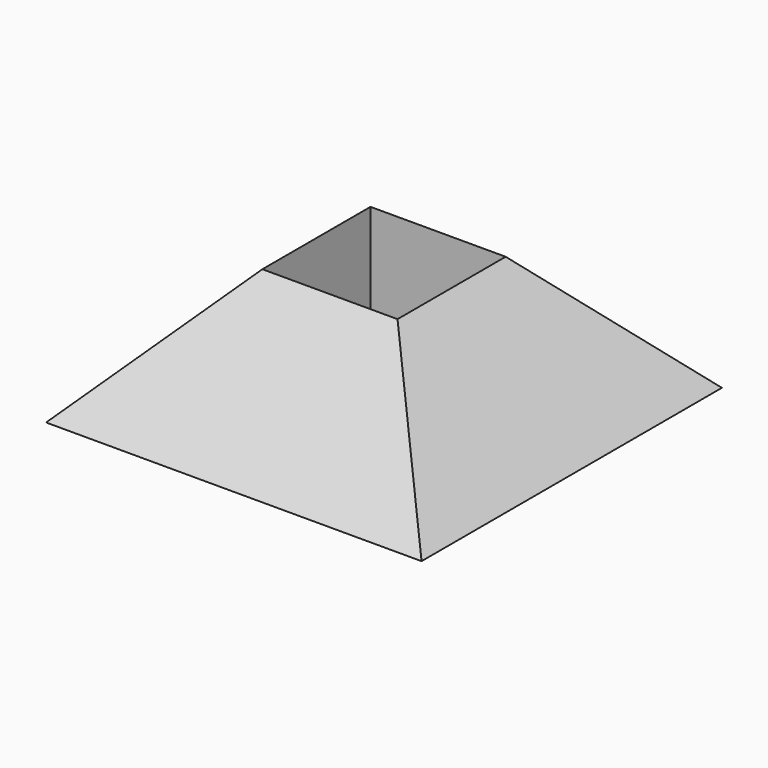
from build123d import *

# Parameters (mm, degrees)
F0_W     = 15
F0_H     = 15
F2_W     = 5.4
F2_H     = 5.4
F4_DEPTH = 5


with BuildPart() as f3:
    # F0 (on Top) → F3 section 0
    with BuildSketch(Plane.XY):
        Rectangle(F0_W, F0_H)
    # F2 (on offset) → F3 section 1
    with BuildSketch(Plane.XY.offset(5)):
        Rectangle(F2_W, F2_H)
    loft()

    # F2 (on offset) → F4 (cut, through all)
    with BuildSketch(Plane.XY.offset(5)):
        Rectangle(F2_W, F2_H)
    extrude(amount=-F4_DEPTH, mode=Mode.SUBTRACT)


solid = f3.part
